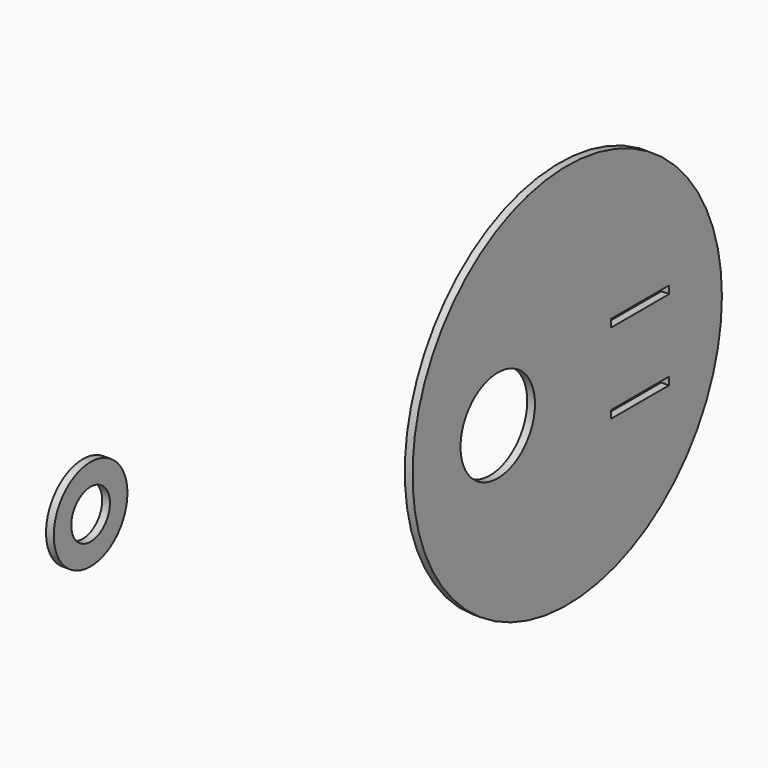
from build123d import *

# Parameters (mm, degrees)
F0_R     = 80
F0_W     = 30
F0_H     = 3.2
F0_R_2   = 19.25
F1_DEPTH = 3.2
F2_R     = 19.05
F2_R_2   = 10
F3_DEPTH = 3.2


with BuildPart() as f1:
    # F0 (on Right) → F1 (new body)
    with BuildSketch(Plane.YZ):
        Circle(F0_R)
        with Locations((37.596961, -19.8)):
            Rectangle(F0_W, F0_H, mode=Mode.SUBTRACT)
        with Locations((-35.919704, 0)):
            Circle(F0_R_2, mode=Mode.SUBTRACT)
        with Locations((37.69696, 13.4)):
            Rectangle(F0_W, F0_H, mode=Mode.SUBTRACT)
    extrude(amount=F1_DEPTH)


with BuildPart() as f3:
    # F2 (on face) → F3 (new body)
    with BuildSketch(Plane.YZ.offset(3.2)):
        with Locations((-250.468284, 55.920999)):
            Circle(F2_R)
        with Locations((-250.468284, 55.920999)):
            Circle(F2_R_2, mode=Mode.SUBTRACT)
    extrude(amount=F3_DEPTH)


solid = Compound([f1.part, f3.part])
